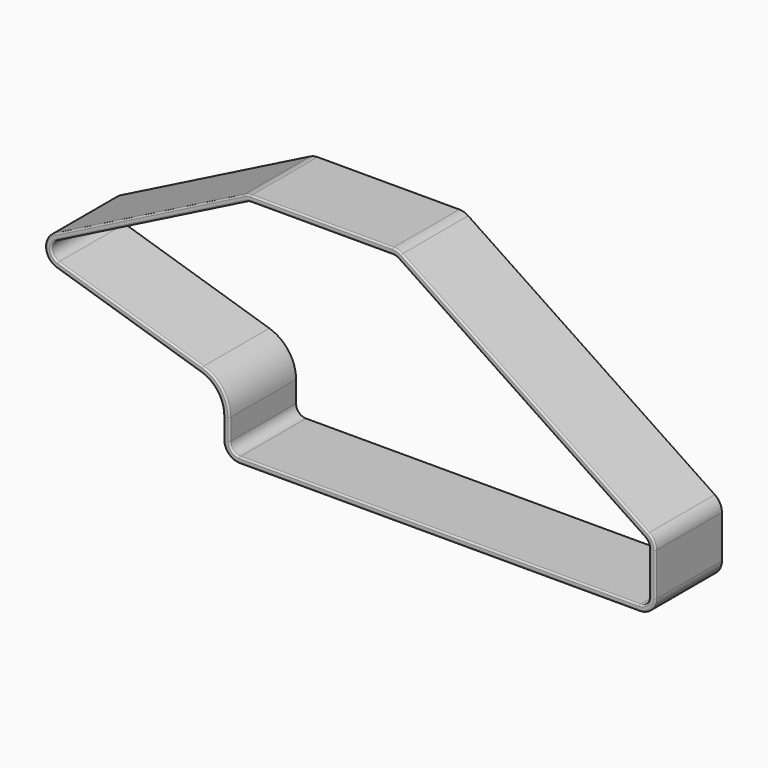
from build123d import *

# Parameters (mm, degrees)
F1_DEPTH = 26
F2_R     = 0.5


with BuildPart() as f1:
    # F0 (on Front) → F1 (new body)
    with BuildSketch(Plane.XZ):
        with BuildLine():
            ThreePointArc((-7.028842, 2.187148), (-1.946691, -1.433011), (0, -7.361266))
            Line((0, -7.361266), (0, -14))
            ThreePointArc((0, -14), (1.464466, -17.535534), (5, -19))
            Line((5, -19), (130, -19))
            ThreePointArc((130, -19), (133.535534, -17.535534), (135, -14))
            Line((135, -14), (135, -0.668184))
            ThreePointArc((135, -0.668184), (134.411209, 1.685799), (132.783505, 3.485381))
            Line((132.783505, 3.485381), (55.683903, 55.153565))
            ThreePointArc((55.683903, 55.153565), (54.355076, 55.783713), (52.900398, 56))
            Line((52.900398, 56), (8.612867, 56))
            ThreePointArc((8.612867, 56), (7.453343, 55.863692), (6.357039, 55.462201))
            Line((6.357039, 55.462201), (-52.958543, 25.475719))
            ThreePointArc((-52.958543, 25.475719), (-55.685419, 20.597997), (-52.188294, 16.239311))
            Line((-52.188294, 16.239311), (-7.028842, 2.187148))
        make_face()
        with BuildLine():
            Line((-52.101328, 23.780084), (7.214253, 53.766566))
            ThreePointArc((7.214253, 53.766566), (7.893962, 54.01549), (8.612867, 54.100001))
            Line((8.612867, 54.100001), (52.900398, 54.100001))
            ThreePointArc((52.900398, 54.100001), (53.802298, 53.965903), (54.626171, 53.575211))
            Line((54.626171, 53.575211), (131.725774, 1.907027))
            ThreePointArc((131.725774, 1.907027), (132.73495, 0.791286), (133.100001, -0.668184))
            Line((133.100001, -0.668184), (133.100001, -14))
            ThreePointArc((133.100001, -14), (132.192032, -16.192032), (130, -17.100001))
            Line((130, -17.100001), (5, -17.100001))
            ThreePointArc((5, -17.100001), (2.807968, -16.192032), (1.899999, -14))
            Line((1.899999, -14), (1.899999, -7.361266))
            ThreePointArc((1.899999, -7.361266), (-0.416563, -0.306643), (-6.464322, 4.001347))
            Line((-6.464322, 4.001347), (-51.623774, 18.053509))
            ThreePointArc((-51.623774, 18.053509), (-53.791992, 20.755895), (-52.101328, 23.780084))
        make_face(mode=Mode.SUBTRACT)
    extrude(amount=F1_DEPTH)

    # F2
    f2_edges = [f1.edges().sort_by_distance(p)[0] for p in [
        (67.5, -26, -19),
        (67.5, -26, -17.100001),
    ]]
    fillet(f2_edges, radius=F2_R)


solid = f1.part
